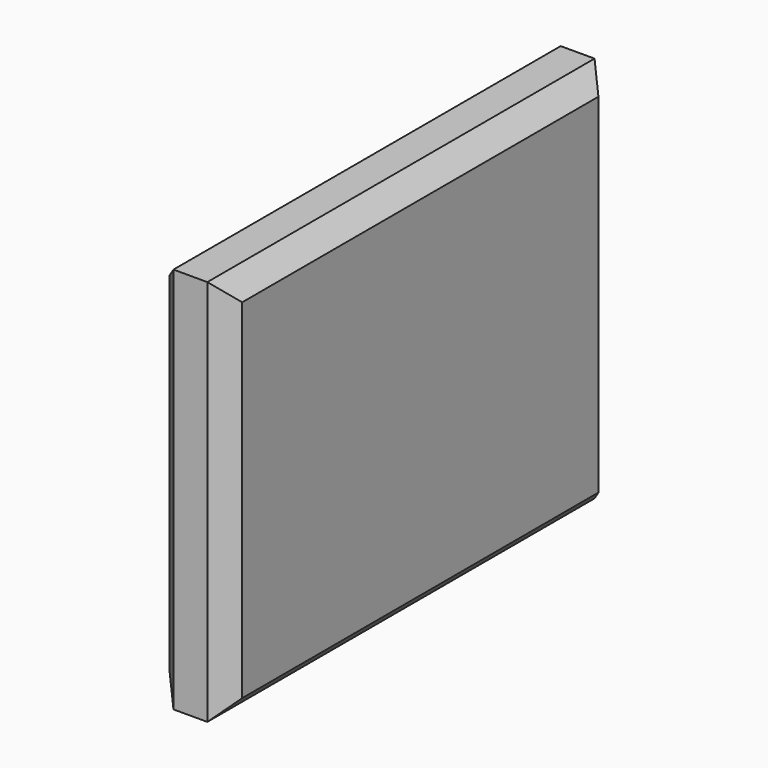
from build123d import *

# Parameters (mm, degrees)
F0_W     = 4.7625
F0_H     = 25.4
F1_DEPTH = 31.75
F2_SIZE  = 1.27


with BuildPart() as f1:
    # F0 (on Front) → F1 (new body)
    with BuildSketch(Plane.XZ):
        Rectangle(F0_W, F0_H)
    extrude(amount=F1_DEPTH)

    # F2
    f2_edges = [f1.edges().sort_by_distance(p)[0] for p in [
        (2.38125, -15.875, -12.7),
        (2.38125, -15.875, 12.7),
        (2.38125, 0, 0),
        (2.38125, -31.75, 0),
        (-2.38125, -15.875, 12.7),
        (-2.38125, -15.875, -12.7),
        (-2.38125, 0, 0),
        (-2.38125, -31.75, 0),
    ]]
    chamfer(f2_edges, length=F2_SIZE)


solid = f1.part
